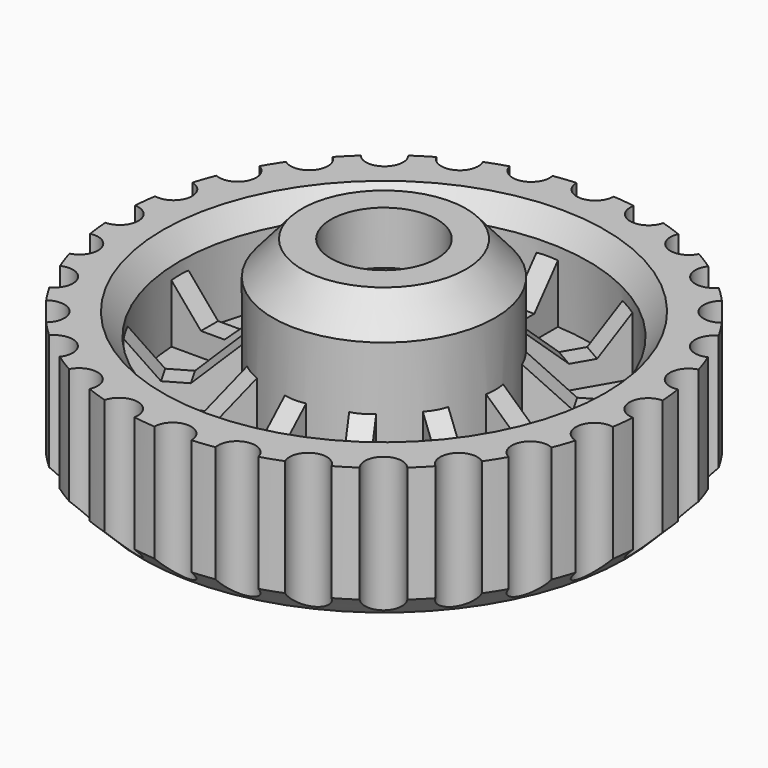
from build123d import *

# Parameters (mm, degrees)
F0_W      = 6.35
F0_H      = 5.08268876
F0_W_2    = 10.1854
F0_W_3    = 6.5786
F2_SIZE   = 2.54
F4_DEPTH  = 1.1684
F6_COUNT  = 12
F8_DEPTH  = 8.2296
F11_R     = 2.032
F13_DEPTH = 25.4
F14_COUNT = 28


with BuildPart() as f1:
    # F0 (on Front) → F1 (revolve)
    with BuildSketch(Plane.XZ):
        Polygon((5.7912, 22.225), (5.7912, 5.08268876), (12.1412, 5.08268876), (12.1412, 18.5716450214), (8.9662, 22.225), align=None)
        with Locations((8.9662, 2.54134438)):
            Rectangle(F0_W, F0_H)
        with Locations((17.2339, 2.54134438)):
            Rectangle(F0_W_2, F0_H)
        with Locations((25.6159, 2.54134438)):
            Rectangle(F0_W_3, F0_H)
        Polygon((22.3266, 12.81783171), (22.3266, 5.08268876), (28.9052, 5.08268876), (28.9052, 15.24), (24.16100353, 15.24), align=None)
    revolve(axis=Axis((0, 0, 11.9176581502), (0, 0, -1)))

    # F2
    f2_edges = [f1.edges().sort_by_distance(p)[0] for p in [
        (-28.9052, 0, 0),
    ]]
    chamfer(f2_edges, length=F2_SIZE)

    # F3 (on Front) → F4 (join, symmetric)
    with BuildSketch(Plane.XZ):
        Polygon((10.9577551484, 12.7341998741), (10.9577551484, 7.6483045705), (16.495730051, 7.6483045705), align=None)
        Polygon((10.9577551484, 7.6483045705), (10.9577551484, 4.9863336608), (23.3638472855, 4.9863336608), (23.3638472855, 7.6483045705), (19.0690907264, 7.6483045705), (17.9450940341, 6.3172560185), (16.495730051, 7.6483045705), align=None)
        Polygon((19.0690907264, 7.6483045705), (23.3638472855, 7.6483045705), (23.3638472855, 12.7341998741), align=None)
        Polygon((19.0690907264, 7.6483045705), (16.495730051, 7.6483045705), (17.9450940341, 6.3172560185), align=None)
    extrude(amount=F4_DEPTH, both=True)

    # F6: F1 ×12 about axis
    f6_axis = Axis((0, 0, 14.3510662019), (0, 0, -1))


with BuildPart() as f1_1:
    add(f1.part)
    for i in range(1, F6_COUNT):
        add(f1.part.rotate(f6_axis, i * 360 / F6_COUNT))


with BuildPart() as f8:
    # F7 (on Top) → F8 (new body)
    with BuildSketch(Plane.XY):
        Polygon((4.1061151145, 7.112), (-4.1061151145, 7.112), (-8.212230229, 0), (-4.1061151145, -7.112), (4.1061151145, -7.112), (8.212230229, 0), align=None)
    extrude(amount=F8_DEPTH)


with BuildPart() as f8_1:
    # F9: moved
    add(f8.part.moved(Location((0, 0, 8.2042))))


with BuildPart() as f1_2:
    add(f1_1.part)

    # F10: cut F8
    add(f8_1.part, mode=Mode.SUBTRACT)


with BuildPart() as f13:
    # F11 (on Top) → F13 (new body)
    with BuildSketch(Plane.XY):
        with Locations((0, 28.8647655398)):
            Circle(F11_R)
    extrude(amount=F13_DEPTH)


with BuildPart() as f14_1:
    # F14: instance of F13
    add(f13.part.rotate(Axis((0, 0, 11.5583315492), (0, 0, -1)), 1 * 360 / F14_COUNT))


with BuildPart() as f14_2:
    # F14: instance of F13
    add(f13.part.rotate(Axis((0, 0, 11.5583315492), (0, 0, -1)), 2 * 360 / F14_COUNT))


with BuildPart() as f14_3:
    # F14: instance of F13
    add(f13.part.rotate(Axis((0, 0, 11.5583315492), (0, 0, -1)), 3 * 360 / F14_COUNT))


with BuildPart() as f14_4:
    # F14: instance of F13
    add(f13.part.rotate(Axis((0, 0, 11.5583315492), (0, 0, -1)), 4 * 360 / F14_COUNT))


with BuildPart() as f14_5:
    # F14: instance of F13
    add(f13.part.rotate(Axis((0, 0, 11.5583315492), (0, 0, -1)), 5 * 360 / F14_COUNT))


with BuildPart() as f14_6:
    # F14: instance of F13
    add(f13.part.rotate(Axis((0, 0, 11.5583315492), (0, 0, -1)), 6 * 360 / F14_COUNT))


with BuildPart() as f14_7:
    # F14: instance of F13
    add(f13.part.rotate(Axis((0, 0, 11.5583315492), (0, 0, -1)), 7 * 360 / F14_COUNT))


with BuildPart() as f14_8:
    # F14: instance of F13
    add(f13.part.rotate(Axis((0, 0, 11.5583315492), (0, 0, -1)), 8 * 360 / F14_COUNT))


with BuildPart() as f14_9:
    # F14: instance of F13
    add(f13.part.rotate(Axis((0, 0, 11.5583315492), (0, 0, -1)), 9 * 360 / F14_COUNT))


with BuildPart() as f14_10:
    # F14: instance of F13
    add(f13.part.rotate(Axis((0, 0, 11.5583315492), (0, 0, -1)), 10 * 360 / F14_COUNT))


with BuildPart() as f14_11:
    # F14: instance of F13
    add(f13.part.rotate(Axis((0, 0, 11.5583315492), (0, 0, -1)), 11 * 360 / F14_COUNT))


with BuildPart() as f14_12:
    # F14: instance of F13
    add(f13.part.rotate(Axis((0, 0, 11.5583315492), (0, 0, -1)), 12 * 360 / F14_COUNT))


with BuildPart() as f14_13:
    # F14: instance of F13
    add(f13.part.rotate(Axis((0, 0, 11.5583315492), (0, 0, -1)), 13 * 360 / F14_COUNT))


with BuildPart() as f14_14:
    # F14: instance of F13
    add(f13.part.rotate(Axis((0, 0, 11.5583315492), (0, 0, -1)), 14 * 360 / F14_COUNT))


with BuildPart() as f14_15:
    # F14: instance of F13
    add(f13.part.rotate(Axis((0, 0, 11.5583315492), (0, 0, -1)), 15 * 360 / F14_COUNT))


with BuildPart() as f14_16:
    # F14: instance of F13
    add(f13.part.rotate(Axis((0, 0, 11.5583315492), (0, 0, -1)), 16 * 360 / F14_COUNT))


with BuildPart() as f14_17:
    # F14: instance of F13
    add(f13.part.rotate(Axis((0, 0, 11.5583315492), (0, 0, -1)), 17 * 360 / F14_COUNT))


with BuildPart() as f14_18:
    # F14: instance of F13
    add(f13.part.rotate(Axis((0, 0, 11.5583315492), (0, 0, -1)), 18 * 360 / F14_COUNT))


with BuildPart() as f14_19:
    # F14: instance of F13
    add(f13.part.rotate(Axis((0, 0, 11.5583315492), (0, 0, -1)), 19 * 360 / F14_COUNT))


with BuildPart() as f14_20:
    # F14: instance of F13
    add(f13.part.rotate(Axis((0, 0, 11.5583315492), (0, 0, -1)), 20 * 360 / F14_COUNT))


with BuildPart() as f14_21:
    # F14: instance of F13
    add(f13.part.rotate(Axis((0, 0, 11.5583315492), (0, 0, -1)), 21 * 360 / F14_COUNT))


with BuildPart() as f14_22:
    # F14: instance of F13
    add(f13.part.rotate(Axis((0, 0, 11.5583315492), (0, 0, -1)), 22 * 360 / F14_COUNT))


with BuildPart() as f14_23:
    # F14: instance of F13
    add(f13.part.rotate(Axis((0, 0, 11.5583315492), (0, 0, -1)), 23 * 360 / F14_COUNT))


with BuildPart() as f14_24:
    # F14: instance of F13
    add(f13.part.rotate(Axis((0, 0, 11.5583315492), (0, 0, -1)), 24 * 360 / F14_COUNT))


with BuildPart() as f14_25:
    # F14: instance of F13
    add(f13.part.rotate(Axis((0, 0, 11.5583315492), (0, 0, -1)), 25 * 360 / F14_COUNT))


with BuildPart() as f14_26:
    # F14: instance of F13
    add(f13.part.rotate(Axis((0, 0, 11.5583315492), (0, 0, -1)), 26 * 360 / F14_COUNT))


with BuildPart() as f14_27:
    # F14: instance of F13
    add(f13.part.rotate(Axis((0, 0, 11.5583315492), (0, 0, -1)), 27 * 360 / F14_COUNT))


with BuildPart() as f1_3:
    add(f1_2.part)

    # F15: cut F14_4, F13, F14_3, F14_6, F14_8, F14_7, F14_5, F14_2, F14_1, F14_9, F14_10, F14_11, F14_12, F14_13, F14_14, F14_15, F14_16, F14_17, F14_18, F14_19, F14_20, F14_21, F14_22, F14_23, F14_24, F14_25, F14_26, F14_27
    add(f14_4.part, mode=Mode.SUBTRACT)
    add(f13.part, mode=Mode.SUBTRACT)
    add(f14_3.part, mode=Mode.SUBTRACT)
    add(f14_6.part, mode=Mode.SUBTRACT)
    add(f14_8.part, mode=Mode.SUBTRACT)
    add(f14_7.part, mode=Mode.SUBTRACT)
    add(f14_5.part, mode=Mode.SUBTRACT)
    add(f14_2.part, mode=Mode.SUBTRACT)
    add(f14_1.part, mode=Mode.SUBTRACT)
    add(f14_9.part, mode=Mode.SUBTRACT)
    add(f14_10.part, mode=Mode.SUBTRACT)
    add(f14_11.part, mode=Mode.SUBTRACT)
    add(f14_12.part, mode=Mode.SUBTRACT)
    add(f14_13.part, mode=Mode.SUBTRACT)
    add(f14_14.part, mode=Mode.SUBTRACT)
    add(f14_15.part, mode=Mode.SUBTRACT)
    add(f14_16.part, mode=Mode.SUBTRACT)
    add(f14_17.part, mode=Mode.SUBTRACT)
    add(f14_18.part, mode=Mode.SUBTRACT)
    add(f14_19.part, mode=Mode.SUBTRACT)
    add(f14_20.part, mode=Mode.SUBTRACT)
    add(f14_21.part, mode=Mode.SUBTRACT)
    add(f14_22.part, mode=Mode.SUBTRACT)
    add(f14_23.part, mode=Mode.SUBTRACT)
    add(f14_24.part, mode=Mode.SUBTRACT)
    add(f14_25.part, mode=Mode.SUBTRACT)
    add(f14_26.part, mode=Mode.SUBTRACT)
    add(f14_27.part, mode=Mode.SUBTRACT)


solid = f1_3.part
